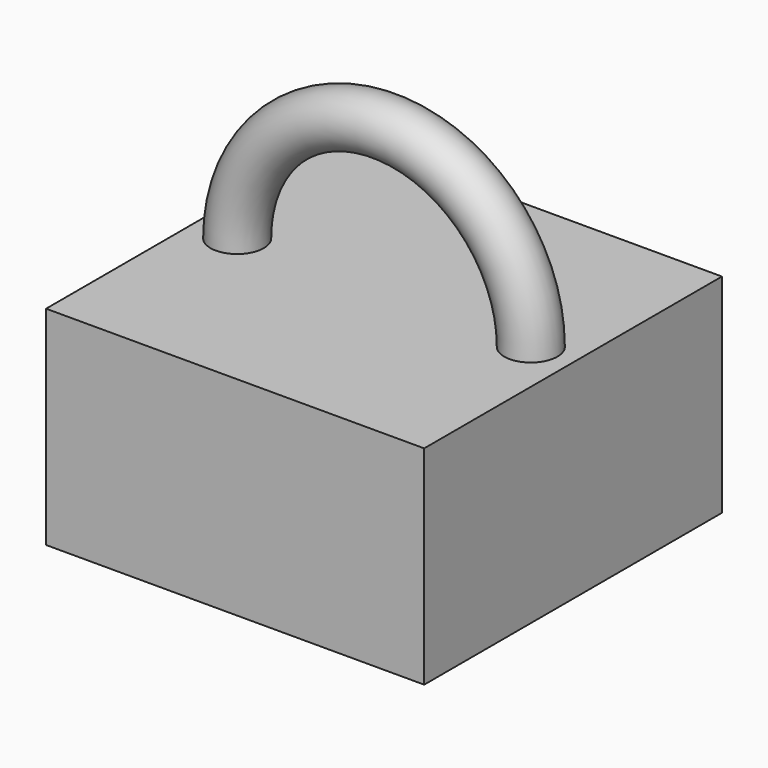
from build123d import *

# Parameters (mm, degrees)
F1_R     = 9.824635
F0_W     = 69.863096
F0_H     = 137.526572
F3_DEPTH = 76.8858


with BuildPart() as f2:
    # F1 (on Top) → F2 (revolve)
    with BuildSketch(Plane.XY):
        with Locations((54.264009, 0)):
            Circle(F1_R)
    revolve(axis=Axis((0, 0, 0), (0, -1, 0)))

    # F0 (on Top) → F3 (join)
    with BuildSketch(Plane.XY):
        with Locations((34.931548, 0)):
            Rectangle(F0_W, F0_H)
        with Locations((-34.931548, 0)):
            Rectangle(F0_W, F0_H)
    extrude(amount=-F3_DEPTH)


solid = f2.part
